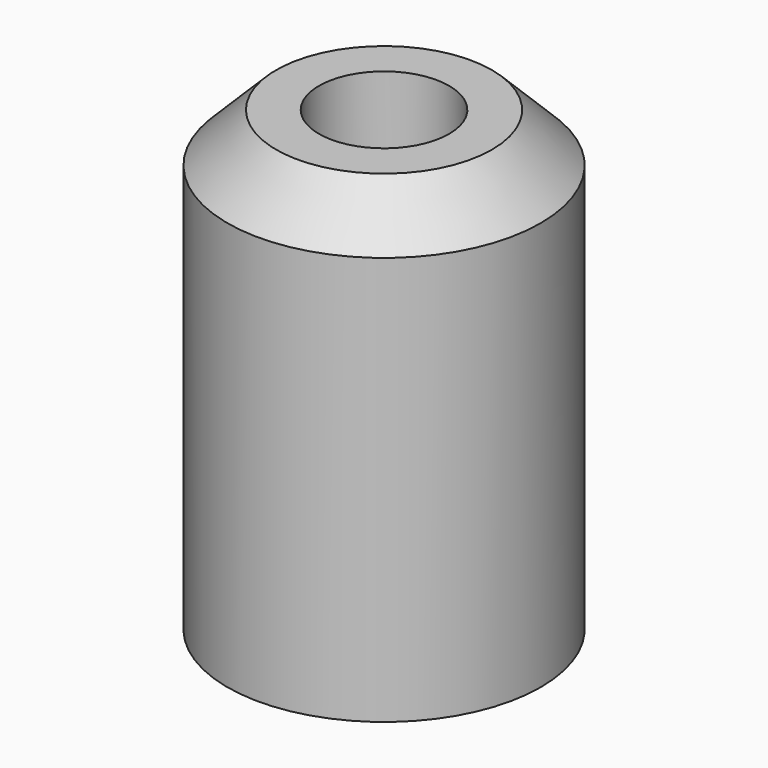
from build123d import *

# Parameters (mm, degrees)
F0_R     = 40.782092
F1_DEPTH = 119.040735
F3_R     = 16.942627
F4_DEPTH = 32.315634
F5_SIZE  = 12.7


with BuildPart() as f1:
    # F0 (on Top) → F1 (new body)
    with BuildSketch(Plane.XY):
        Circle(F0_R)
    extrude(amount=F1_DEPTH)

    # F3 (on face) → F4 (cut)
    with BuildSketch(Plane.XY.offset(119.040735)):
        Circle(F3_R)
    extrude(amount=-F4_DEPTH, mode=Mode.SUBTRACT)

    # F5
    f5_edges = [f1.edges().sort_by_distance(p)[0] for p in [
        (-40.782092, 0, 119.040735),
    ]]
    chamfer(f5_edges, length=F5_SIZE)


solid = f1.part
